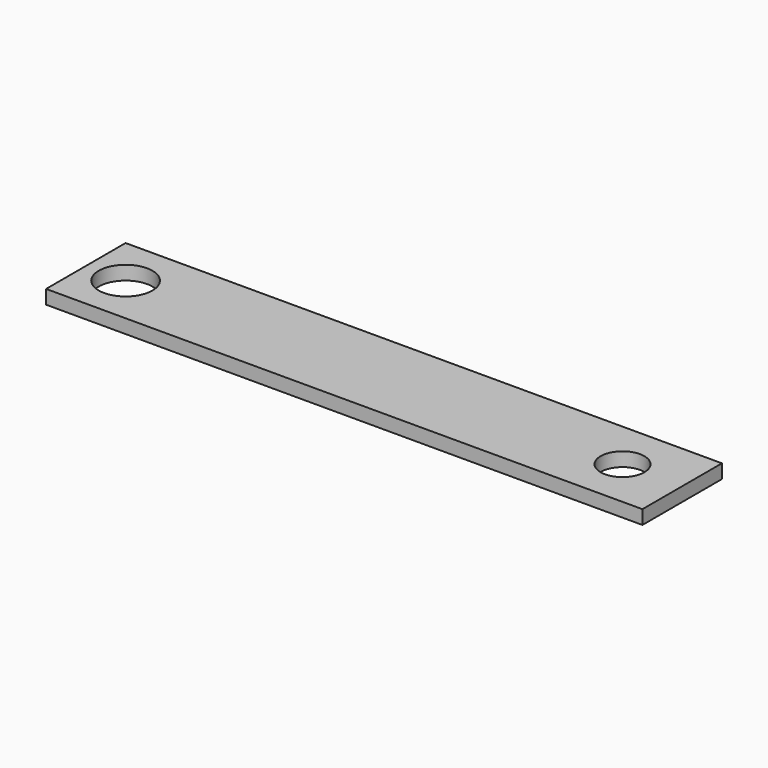
from build123d import *

# Parameters (mm, degrees)
SKETCH_W   = 300
SKETCH_H   = 50
SKETCH_R   = 13.5
SKETCH_R_2 = 11
PAD_DEPTH  = 7


with BuildPart() as part:
    # Sketch → Pad (new body)
    with BuildSketch(Plane.XY):
        with Locations((130, 0)):
            Rectangle(SKETCH_W, SKETCH_H)
        Circle(SKETCH_R, mode=Mode.SUBTRACT)
        with Locations((250, 0)):
            Circle(SKETCH_R_2, mode=Mode.SUBTRACT)
    extrude(amount=PAD_DEPTH)


solid = part.part
